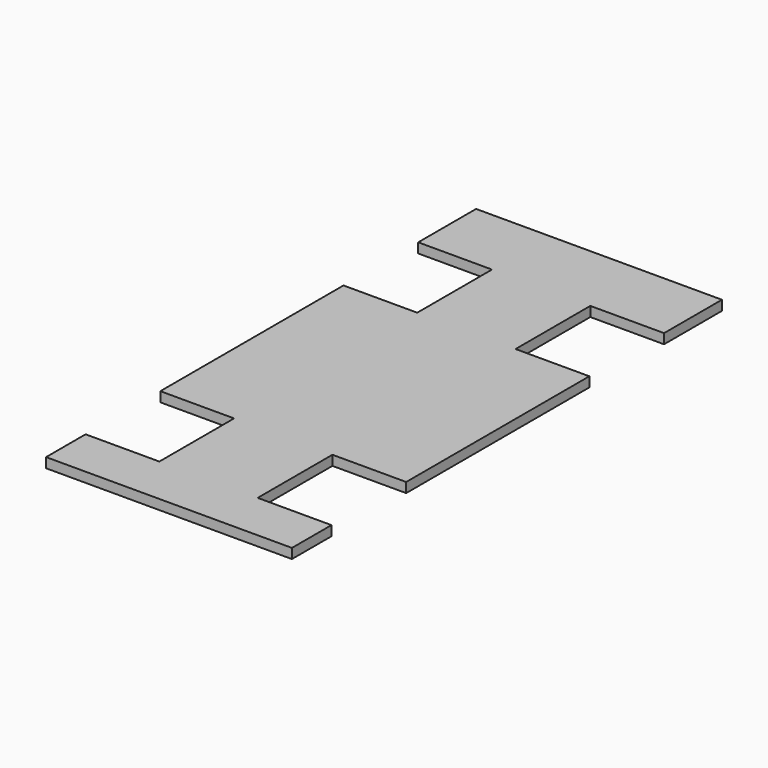
from build123d import *

# Parameters (mm, degrees)
F1_DEPTH = 1


with BuildPart() as f1:
    # F0 (on Top) → F1 (new body)
    with BuildSketch(Plane.XY):
        Polygon((-12.5, -27.328428), (12.5, -27.328428), (12.5, -22.306036), (5, -22.306036), (5, -12.806036), (12.5, -12.806036), (12.5, 10.474138), (5, 10.474138), (5, 19.974138), (12.5, 19.974138), (12.5, 27.328428), (-12.5, 27.328428), (-12.5, 19.974138), (-5, 19.974138), (-5, 10.474138), (-12.5, 10.474138), (-12.5, -12.806036), (-5, -12.806036), (-5, -22.306036), (-12.5, -22.306036), align=None)
    extrude(amount=F1_DEPTH)


solid = f1.part
